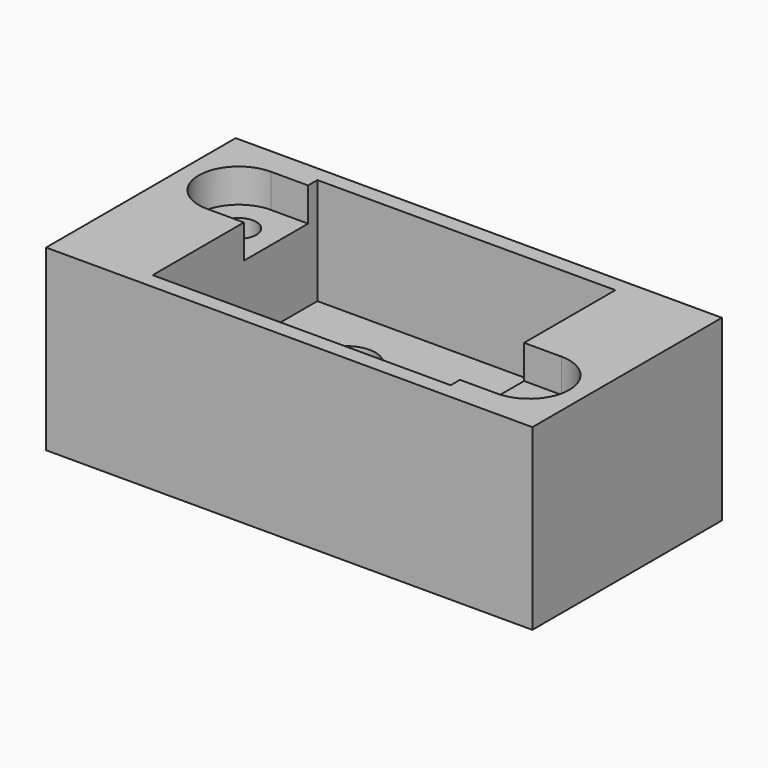
from build123d import *

# Parameters (mm, degrees)
F0_W     = 47
F0_H     = 22.9
F1_DEPTH = 17.25
F0_R     = 2.75
F2_DEPTH = 6.95
F0_R_2   = 1.7
F3_DEPTH = 14
F0_R_3   = 2.02
F4_DEPTH = 4.4


with BuildPart() as f1:
    # F0 (on Top) → F1 (new body)
    with BuildSketch(Plane.XY):
        Rectangle(F0_W, F0_H)
        with BuildLine():
            Line((-14.4, 8.825), (-14.4, 9.95))
            Line((-14.4, 9.95), (14.4, 9.95))
            Line((14.4, 9.95), (14.4, -1.075))
            Line((14.4, -1.075), (18, -1.075))
            ThreePointArc((18, -1.075), (21.875, -4.95), (18, -8.825))
            Line((18, -8.825), (14.4, -8.825))
            Line((14.4, -8.825), (14.4, -9.95))
            Line((14.4, -9.95), (-14.4, -9.95))
            Line((-14.4, -9.95), (-14.4, 1.075))
            Line((-14.4, 1.075), (-18, 1.075))
            ThreePointArc((-18, 1.075), (-21.875, 4.95), (-18, 8.825))
            Line((-18, 8.825), (-14.4, 8.825))
        make_face(mode=Mode.SUBTRACT)
    extrude(amount=F1_DEPTH)

    # F0 (on Top) → F2 (join)
    with BuildSketch(Plane.XY):
        Polygon((14.4, 9.95), (-14.4, 9.95), (-14.4, 8.825), (-14.4, 1.075), (-14.4, -9.95), (14.4, -9.95), (14.4, -8.825), (14.4, -1.075), align=None)
        with Locations((-6.35, 3.45)):
            Circle(F0_R, mode=Mode.SUBTRACT)
        with Locations((6.35, 3.45)):
            Circle(F0_R, mode=Mode.SUBTRACT)
    extrude(amount=F2_DEPTH)

    # F0 (on Top) → F3 (join)
    with BuildSketch(Plane.XY):
        with BuildLine():
            Line((18, -1.075), (14.4, -1.075))
            Line((14.4, -1.075), (14.4, -8.825))
            Line((14.4, -8.825), (18, -8.825))
            ThreePointArc((18, -8.825), (21.875, -4.95), (18, -1.075))
        make_face()
        with Locations((18, -4.95)):
            Circle(F0_R_2, mode=Mode.SUBTRACT)
        with BuildLine():
            Line((-14.4, 1.075), (-14.4, 8.825))
            Line((-14.4, 8.825), (-18, 8.825))
            ThreePointArc((-18, 8.825), (-21.875, 4.95), (-18, 1.075))
            Line((-18, 1.075), (-14.4, 1.075))
        make_face()
        with Locations((-18, 4.95)):
            Circle(F0_R_2, mode=Mode.SUBTRACT)
    extrude(amount=F3_DEPTH)

    # F0 (on Top) → F4 (join)
    with BuildSketch(Plane.XY):
        with Locations((-6.35, 3.45)):
            Circle(F0_R)
        with Locations((-6.35, 3.45)):
            Circle(F0_R_3, mode=Mode.SUBTRACT)
        with Locations((6.35, 3.45)):
            Circle(F0_R)
        with Locations((6.35, 3.45)):
            Circle(F0_R_3, mode=Mode.SUBTRACT)
    extrude(amount=F4_DEPTH)


solid = f1.part
